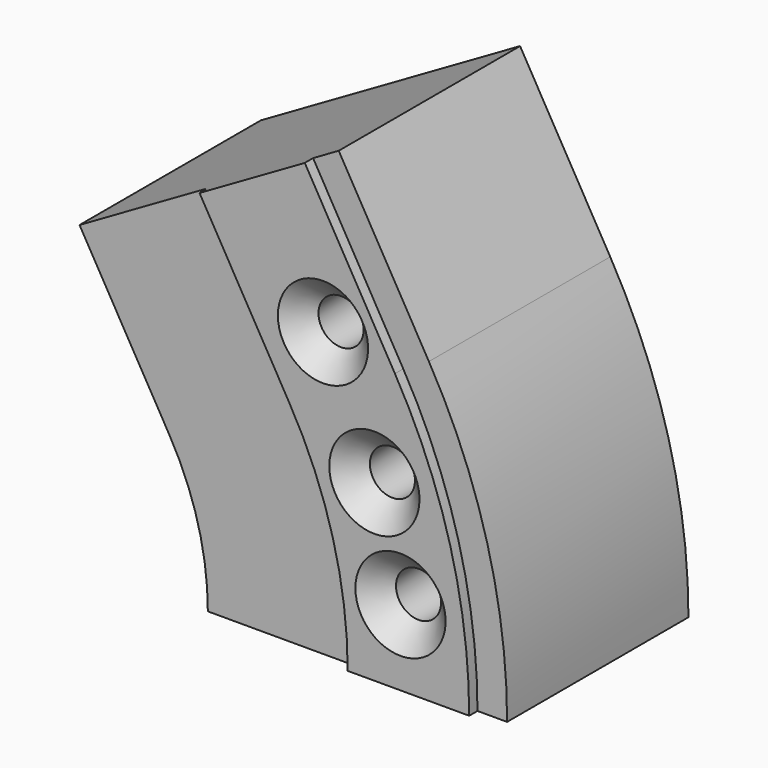
from build123d import *

# Parameters (mm, degrees)
F2_ANGLE       = 30
F3_DEPTH       = 25.4
F4_R           = 0.635
F6_D           = 6.35
F6_CSINK_D     = 12.7
F6_CSINK_ANGLE = 90


with BuildPart() as f2:
    # F0 (on Top) → F2 (revolve)
    with BuildSketch(Plane.XY):
        Polygon((21.0717357695, -15.9602742642), (21.0717357695, 15.9602742642), (-21.0717357695, 15.9602742642), (-21.0717357695, -15.9602742642), (-0.2086274326, -15.9602742642), (-0.2086274326, -17.420691438), (16.899112612, -17.420691438), (16.899112612, -15.9602742642), align=None)
    revolve(axis=Axis((-61.1288920045, 1.6690483317, 0), (0, -1, 0)), revolution_arc=F2_ANGLE)

    # F3 (add): a face of the model
    f3_faces = [f2.faces().sort_by_distance(p)[0] for p in [
        (-8.057939505, -0.3043307955, 30.6405287117),
    ]]
    extrude(f3_faces, amount=F3_DEPTH)

    # F4
    f4_edges = [f2.edges().sort_by_distance(p)[0] for p in [
        (-2.284435, -15.960274, 15.767325),
        (-14.720395, -15.960274, 41.458655),
    ]]
    fillet(f4_edges, radius=F4_R)

    # F6 (through all)
    with Locations(Plane.XZ.offset(17.420691438)):
        with Locations((7.227263879, 10.6254266575), (3.5499625374, 24.5596691966), (-3.6885414738, 40.8757403493)):
            CounterSinkHole(F6_D / 2, F6_CSINK_D / 2, counter_sink_angle=F6_CSINK_ANGLE)


solid = f2.part
